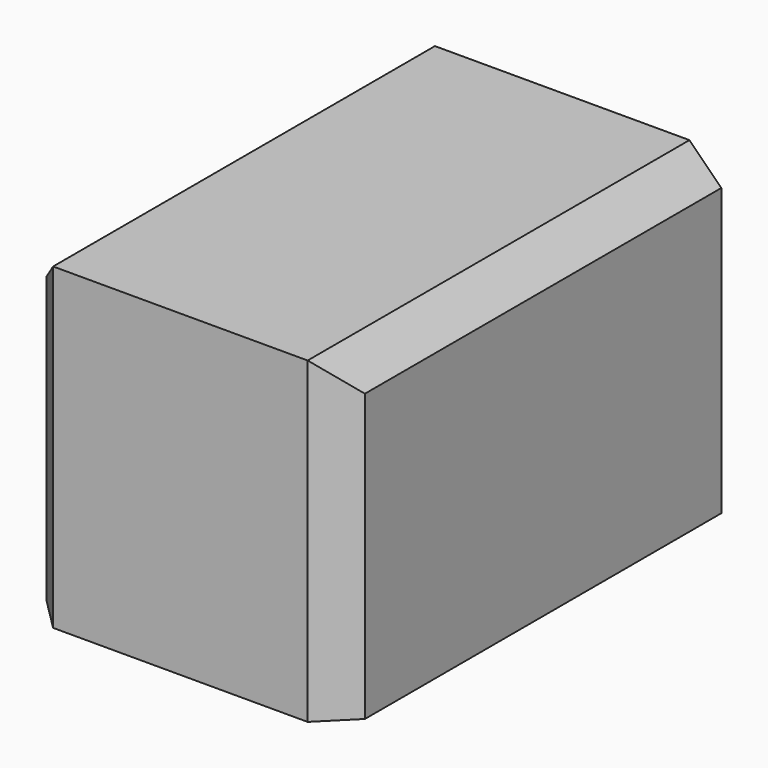
from build123d import *

# Parameters (mm, degrees)
F0_W          = 50
F0_H          = 50
F1_DEPTH      = 50
F1_DEPTH_BACK = 25
F2_SIZE       = 5


with BuildPart() as f1:
    # F0 (on Front) → F1 (new body, two sides)
    with BuildSketch(Plane.XZ) as f1_sk:
        with Locations((-25, 25)):
            Rectangle(F0_W, F0_H)
    extrude(amount=F1_DEPTH)
    extrude(f1_sk.sketch, amount=-F1_DEPTH_BACK)

    # F2
    f2_edges = [f1.edges().sort_by_distance(p)[0] for p in [
        (0, -12.5, 50),
        (0, -50, 25),
        (-50, -50, 25),
        (-50, -12.5, 50),
    ]]
    chamfer(f2_edges, length=F2_SIZE)


solid = f1.part
